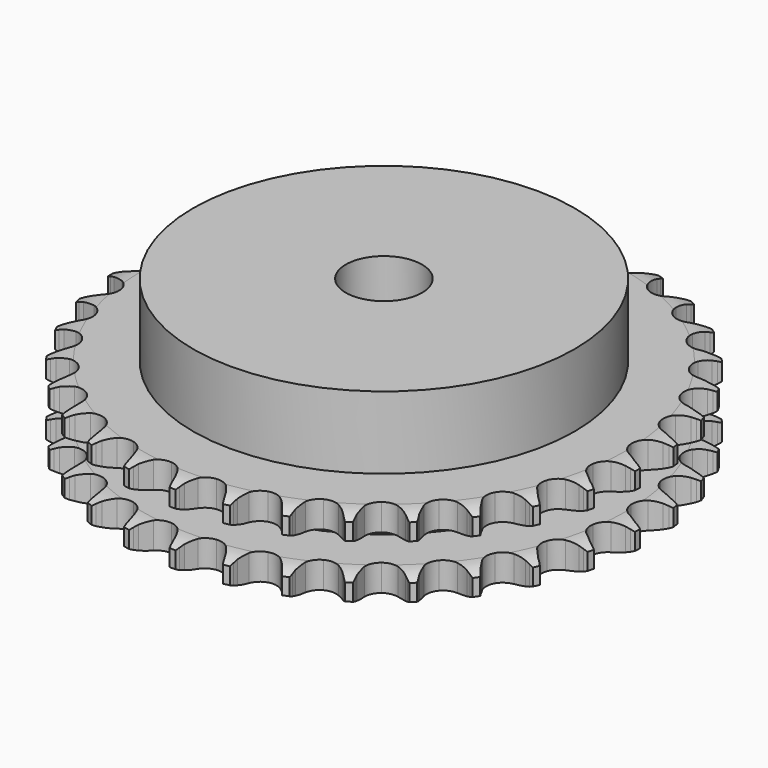
from build123d import *

# Parameters (mm, degrees)
PAD_DEPTH         = 21
SKETCH001_R       = 50
PAD001_DEPTH      = 40
SKETCH002_R       = 10
POCKET_DEPTH      = 0.001
POCKET_DEPTH_BACK = 40.001


with BuildPart() as part:
    # Sprocket → Pad (new body)
    with BuildSketch(Plane.XY):
        with BuildLine():
            ThreePointArc((-6.71181, 70.289252), (-5.944232, 69.253929), (-5.382059, 68.094174))
            Line((-5.382059, 68.094174), (-4.966904, 66.984686))
            ThreePointArc((-4.966904, 66.984686), (-4.30897, 65.54703), (-3.453835, 64.217188))
            ThreePointArc((-3.453835, 64.217188), (-1.931189, 62.944673), (0, 62.488321))
            ThreePointArc((0, 62.488321), (1.931189, 62.944673), (3.453835, 64.217188))
            ThreePointArc((3.453835, 64.217188), (4.30897, 65.54703), (4.966904, 66.984686))
            Line((4.966904, 66.984686), (5.382059, 68.094174))
            ThreePointArc((5.382059, 68.094174), (5.944232, 69.253929), (6.71181, 70.289252))
            ThreePointArc((6.71181, 70.289252), (7.26958, 69.127373), (7.602109, 67.882185))
            Line((7.602109, 67.882185), (7.799789, 66.714178))
            ThreePointArc((7.799789, 66.714178), (8.173756, 65.177987), (8.761763, 63.710342))
            ThreePointArc((8.761763, 63.710342), (10.016068, 62.172661), (11.825993, 61.359076))
            ThreePointArc((11.825993, 61.359076), (13.808647, 61.441701), (15.544603, 62.403057))
            Line((15.544603, 62.403057), (17.554081, 64.834193))
            ThreePointArc((17.554081, 64.834193), (17.849425, 65.347856), (18.171705, 65.845062))
            ThreePointArc((18.171705, 65.845062), (18.943204, 66.877467), (19.892847, 67.748815))
            ThreePointArc((19.892847, 67.748815), (20.220651, 66.502374), (20.311517, 65.216757))
            Line((20.311517, 65.216757), (20.284578, 64.032446))
            ThreePointArc((20.284578, 64.032446), (20.361061, 62.453243), (20.660688, 60.900839))
            ThreePointArc((20.660688, 60.900839), (21.601318, 59.153566), (23.224563, 58.012154))
            ThreePointArc((23.224563, 58.012154), (25.187025, 57.718066), (27.073547, 58.333517))
            Line((27.073547, 58.333517), (29.506807, 60.340423))
            ThreePointArc((29.506807, 60.340423), (29.894026, 60.788909), (30.304579, 61.216138))
            ThreePointArc((30.304579, 61.216138), (31.257519, 62.083879), (32.354905, 62.75976))
            ThreePointArc((32.354905, 62.75976), (32.440895, 61.473807), (32.286814, 60.194225))
            Line((32.286814, 60.194225), (32.03623, 59.036415))
            ThreePointArc((32.03623, 59.036415), (31.812464, 57.471275), (31.812882, 55.89022))
            ThreePointArc((31.812882, 55.89022), (32.40584, 53.996508), (33.783737, 52.568521))
            ThreePointArc((33.783737, 52.568521), (35.655079, 51.908349), (37.623984, 52.155652))
            Line((37.623984, 52.155652), (40.393081, 53.665793))
            ThreePointArc((40.393081, 53.665793), (40.858179, 54.032893), (41.342166, 54.374704))
            ThreePointArc((41.342166, 54.374704), (42.442107, 55.046418), (43.647572, 55.502403))
            ThreePointArc((43.647572, 55.502403), (43.48864, 54.223415), (43.095181, 52.996117))
            Line((43.095181, 52.996117), (42.630008, 51.906654))
            ThreePointArc((42.630008, 51.906654), (42.114081, 50.412146), (41.815275, 48.859584))
            ThreePointArc((41.815275, 48.859584), (42.039131, 46.887875), (43.121879, 45.224925))
            ThreePointArc((43.121879, 45.224925), (44.834465, 44.22253), (46.814592, 44.092746))
            Line((46.814592, 44.092746), (49.819444, 45.051541))
            ThreePointArc((49.819444, 45.051541), (50.34561, 45.323987), (50.88554, 45.568025))
            ThreePointArc((50.88554, 45.568025), (52.092726, 46.019436), (53.362702, 46.239045))
            ThreePointArc((53.362702, 46.239045), (52.964592, 45.013248), (52.345976, 43.882592))
            Line((52.345976, 43.882592), (51.683027, 42.900851))
            ThreePointArc((51.683027, 42.900851), (50.893586, 41.53099), (50.306356, 40.063035))
            ThreePointArc((50.306356, 40.063035), (50.153018, 38.084592), (50.901484, 36.246783))
            ThreePointArc((50.901484, 36.246783), (52.393416, 34.938393), (54.313198, 34.436212))
            Line((54.313198, 34.436212), (57.445202, 34.809009))
            ThreePointArc((57.445202, 34.809009), (58.013421, 34.976954), (58.589777, 35.1144))
            ThreePointArc((58.589777, 35.1144), (59.860578, 35.329191), (61.149166, 35.304487))
            ThreePointArc((61.149166, 35.304487), (60.526266, 34.176185), (59.704851, 33.183035))
            Line((59.704851, 33.183035), (58.868087, 32.344499))
            ThreePointArc((58.868087, 32.344499), (57.833665, 31.148797), (56.979234, 29.818503))
            ThreePointArc((56.979234, 29.818503), (56.454244, 27.904833), (56.841376, 25.958587))
            ThreePointArc((56.841376, 25.958587), (58.058733, 24.391491), (59.848784, 23.535065))
            Line((59.848784, 23.535065), (62.99474, 23.308389))
            ThreePointArc((62.99474, 23.308389), (63.584475, 23.365763), (64.176427, 23.391649))
            ThreePointArc((64.176427, 23.391649), (65.464913, 23.362058), (66.725539, 23.093934))
            ThreePointArc((66.725539, 23.093934), (65.900363, 22.103906), (64.905837, 21.284157))
            Line((64.905837, 21.284157), (63.925501, 20.619133))
            ThreePointArc((63.925501, 20.619133), (62.683484, 19.640804), (61.592733, 18.496253))
            ThreePointArc((61.592733, 18.496253), (60.715067, 16.71652), (60.726874, 14.73218))
            ThreePointArc((60.726874, 14.73218), (61.625657, 12.963018), (63.221278, 11.783299))
            Line((63.221278, 11.783299), (66.267485, 10.965343))
            ThreePointArc((66.267485, 10.965343), (66.85742, 10.910072), (67.443574, 10.823463))
            ThreePointArc((67.443574, 10.823463), (68.703175, 10.550559), (69.890277, 10.048705))
            ThreePointArc((69.890277, 10.048705), (68.89265, 9.232734), (67.760958, 8.616014))
            Line((67.760958, 8.616014), (66.67248, 8.148538))
            ThreePointArc((66.67248, 8.148538), (65.267758, 7.422942), (63.980111, 6.5055))
            ThreePointArc((63.980111, 6.5055), (62.781489, 4.924029), (62.417543, 2.973314))
            ThreePointArc((62.417543, 2.973314), (62.965268, 1.066027), (64.308792, -0.394346))
            Line((64.308792, -0.394346), (67.14515, -1.774019))
            ThreePointArc((67.14515, -1.774019), (67.713964, -1.939937), (68.273135, -2.135912))
            ThreePointArc((68.273135, -2.135912), (69.458325, -2.642264), (70.528999, -3.35971))
            ThreePointArc((70.528999, -3.35971), (69.394976, -3.972133), (68.16702, -4.363534))
            Line((68.16702, -4.363534), (67.009743, -4.616567))
            ThreePointArc((67.009743, -4.616567), (65.493086, -5.063204), (64.055081, -5.720379))
            ThreePointArc((64.055081, -5.720379), (62.578824, -7.046429), (61.85228, -8.893015))
            ThreePointArc((61.85228, -8.893015), (62.02915, -10.869493), (63.072017, -12.557739))
            Line((63.072017, -12.557739), (65.596014, -14.449263))
            ThreePointArc((65.596014, -14.449263), (66.123149, -14.719832), (66.635127, -15.018089))
            ThreePointArc((66.635127, -15.018089), (67.703071, -15.73959), (68.618618, -16.646697))
            ThreePointArc((68.618618, -16.646697), (67.389187, -17.033437), (66.109349, -17.185373))
            Line((66.109349, -17.185373), (64.925098, -17.214816))
            ThreePointArc((64.925098, -17.214816), (63.351323, -17.366354), (61.814934, -17.739508))
            ThreePointArc((61.814934, -17.739508), (60.114398, -18.762211), (59.051515, -20.437928))
            ThreePointArc((59.051515, -20.437928), (58.851138, -22.412161), (59.555656, -24.267262))
            Line((59.555656, -24.267262), (61.676068, -26.602273))
            ThreePointArc((61.676068, -26.602273), (62.142471, -26.967714), (62.588751, -27.357473))
            ThreePointArc((62.588751, -27.357473), (63.500851, -28.268045), (64.228182, -29.332028))
            ThreePointArc((64.228182, -29.332028), (62.947778, -29.479109), (61.662314, -29.386087))
            Line((61.662314, -29.386087), (60.493892, -29.190878))
            ThreePointArc((60.493892, -29.190878), (58.919878, -29.041838), (57.340634, -29.117485))
            ThreePointArc((57.340634, -29.117485), (55.47728, -29.799878), (54.116474, -31.244161))
            ThreePointArc((54.116474, -31.244161), (53.546092, -33.144795), (53.886798, -35.099703))
            Line((53.886798, -35.099703), (55.526988, -37.793808))
            ThreePointArc((55.526988, -37.793808), (55.915802, -38.240912), (56.280255, -38.708087))
            ThreePointArc((56.280255, -38.708087), (57.003546, -39.77482), (57.516373, -40.957224))
            ThreePointArc((57.516373, -40.957224), (56.231271, -40.859328), (54.986642, -40.524712))
            Line((54.986642, -40.524712), (53.876278, -40.111905))
            ThreePointArc((53.876278, -40.111905), (52.358915, -39.667674), (50.793893, -39.44308))
            ThreePointArc((50.793893, -39.44308), (48.83507, -39.7605), (47.225522, -40.921148))
            ThreePointArc((47.225522, -40.921148), (46.30575, -42.67949), (46.270331, -44.663549))
            Line((46.270331, -44.663549), (47.371017, -47.619376))
            ThreePointArc((47.371017, -47.619376), (47.668191, -48.131984), (47.937644, -48.65969))
            ThreePointArc((47.937644, -48.65969), (48.445983, -49.844029), (48.725771, -51.102118))
            ThreePointArc((48.725771, -51.102118), (47.48242, -50.762785), (46.32361, -50.198668))
            Line((46.32361, -50.198668), (45.311436, -49.583183))
            ThreePointArc((45.311436, -49.583183), (43.905564, -48.859817), (42.411329, -48.3431))
            ThreePointArc((42.411329, -48.3431), (40.427832, -48.284074), (38.627717, -49.119138))
            ThreePointArc((38.627717, -49.119138), (37.391799, -50.671637), (36.981534, -52.613138))
            Line((36.981534, -52.613138), (37.502935, -55.723856))
            ThreePointArc((37.502935, -55.723856), (37.697726, -56.283441), (37.862441, -56.852604))
            ThreePointArc((37.862441, -56.852604), (38.137456, -58.111745), (38.174094, -59.400049))
            ThreePointArc((38.174094, -59.400049), (37.017431, -58.831542), (35.986321, -58.058313))
            Line((35.986321, -58.058313), (35.10892, -57.262396))
            ThreePointArc((35.10892, -57.262396), (33.865352, -56.286039), (32.49591, -55.495874))
            ThreePointArc((32.49591, -55.495874), (30.559427, -55.062535), (28.633806, -55.541835))
            ThreePointArc((28.633806, -55.541835), (27.12641, -56.832379), (26.356128, -58.661152))
            Line((26.356128, -58.661152), (26.279399, -61.814331))
            ThreePointArc((26.279399, -61.814331), (26.364768, -62.400667), (26.418792, -62.990718))
            ThreePointArc((26.418792, -62.990718), (26.450543, -64.279151), (26.242705, -65.551108))
            ThreePointArc((26.242705, -65.551108), (25.214535, -64.773974), (24.348394, -63.81958))
            Line((24.348394, -63.81958), (23.637477, -62.871997))
            ThreePointArc((23.637477, -62.871997), (22.601158, -61.677937), (21.406003, -60.642883))
            ThreePointArc((21.406003, -60.642883), (19.586526, -59.850893), (17.604995, -59.957105))
            ThreePointArc((17.604995, -59.957105), (15.880602, -60.93905), (14.778142, -62.588998))
            Line((14.778142, -62.588998), (14.106057, -65.670674))
            ThreePointArc((14.106057, -65.670674), (14.078919, -66.262571), (14.020298, -66.852183))
            ThreePointArc((14.020298, -66.852183), (13.807638, -68.123342), (13.362836, -69.332978))
            ThreePointArc((13.362836, -69.332978), (12.50032, -68.375306), (11.830451, -67.274241))
            Line((11.830451, -67.274241), (11.311713, -66.20924))
            ThreePointArc((11.311713, -66.20924), (10.520099, -64.840634), (9.542428, -63.598099))
            ThreePointArc((9.542428, -63.598099), (7.905716, -62.476084), (5.939893, -62.205369))
            ThreePointArc((5.939893, -62.205369), (4.060828, -62.843226), (2.666036, -64.254715))
            Line((2.666036, -64.254715), (1.422886, -67.153508))
            ThreePointArc((1.422886, -67.153508), (1.28422, -67.729573), (1.115074, -68.297435))
            ThreePointArc((1.115074, -68.297435), (0.665688, -69.505377), (0, -70.608975))
            ThreePointArc((0, -70.608975), (-0.665688, -69.505377), (-1.115074, -68.297435))
            Line((-1.115074, -68.297435), (-1.422886, -67.153508))
            ThreePointArc((-1.422886, -67.153508), (-1.941183, -65.659821), (-2.666036, -64.254715))
            ThreePointArc((-2.666036, -64.254715), (-4.060828, -62.843226), (-5.939893, -62.205369))
            ThreePointArc((-5.939893, -62.205369), (-7.905716, -62.476084), (-9.542428, -63.598099))
            Line((-9.542428, -63.598099), (-11.311713, -66.20924))
            ThreePointArc((-11.311713, -66.20924), (-11.556893, -66.748652), (-11.830451, -67.274241))
            ThreePointArc((-11.830451, -67.274241), (-12.50032, -68.375306), (-13.362836, -69.332978))
            ThreePointArc((-13.362836, -69.332978), (-13.807638, -68.123342), (-14.020298, -66.852183))
            Line((-14.020298, -66.852183), (-14.106057, -65.670674))
            ThreePointArc((-14.106057, -65.670674), (-14.332306, -64.105891), (-14.778142, -62.588998))
            ThreePointArc((-14.778142, -62.588998), (-15.880602, -60.93905), (-17.604995, -59.957105))
            ThreePointArc((-17.604995, -59.957105), (-19.586526, -59.850893), (-21.406003, -60.642883))
            Line((-21.406003, -60.642883), (-23.637477, -62.871997))
            ThreePointArc((-23.637477, -62.871997), (-23.980311, -63.35526), (-24.348394, -63.81958))
            ThreePointArc((-24.348394, -63.81958), (-25.214535, -64.773974), (-26.242705, -65.551108))
            ThreePointArc((-26.242705, -65.551108), (-26.450543, -64.279151), (-26.418792, -62.990718))
            Line((-26.418792, -62.990718), (-26.279399, -61.814331))
            ThreePointArc((-26.279399, -61.814331), (-26.205423, -60.235008), (-26.356128, -58.661152))
            ThreePointArc((-26.356128, -58.661152), (-27.12641, -56.832379), (-28.633806, -55.541835))
            ThreePointArc((-28.633806, -55.541835), (-30.559427, -55.062535), (-32.49591, -55.495874))
            Line((-32.49591, -55.495874), (-35.10892, -57.262396))
            ThreePointArc((-35.10892, -57.262396), (-35.537017, -57.672044), (-35.986321, -58.058313))
            ThreePointArc((-35.986321, -58.058313), (-37.017431, -58.831542), (-38.174094, -59.400049))
            ThreePointArc((-38.174094, -59.400049), (-38.137456, -58.111745), (-37.862441, -56.852604))
            Line((-37.862441, -56.852604), (-37.502935, -55.723856))
            ThreePointArc((-37.502935, -55.723856), (-37.131407, -54.187074), (-36.981534, -52.613138))
            ThreePointArc((-36.981534, -52.613138), (-37.391799, -50.671637), (-38.627717, -49.119138))
            ThreePointArc((-38.627717, -49.119138), (-40.427832, -48.284074), (-42.411329, -48.3431))
            Line((-42.411329, -48.3431), (-45.311436, -49.583183))
            ThreePointArc((-45.311436, -49.583183), (-45.809323, -49.904411), (-46.32361, -50.198668))
            ThreePointArc((-46.32361, -50.198668), (-47.48242, -50.762785), (-48.725771, -51.102118))
            ThreePointArc((-48.725771, -51.102118), (-48.445983, -49.844029), (-47.937644, -48.65969))
            Line((-47.937644, -48.65969), (-47.371017, -47.619376))
            ThreePointArc((-47.371017, -47.619376), (-46.715365, -46.180678), (-46.270331, -44.663549))
            ThreePointArc((-46.270331, -44.663549), (-46.30575, -42.67949), (-47.225522, -40.921148))
            ThreePointArc((-47.225522, -40.921148), (-48.83507, -39.7605), (-50.793893, -39.44308))
            Line((-50.793893, -39.44308), (-53.876278, -40.111905))
            ThreePointArc((-53.876278, -40.111905), (-54.425961, -40.333102), (-54.986642, -40.524712))
            ThreePointArc((-54.986642, -40.524712), (-56.231271, -40.859328), (-57.516373, -40.957224))
            ThreePointArc((-57.516373, -40.957224), (-57.003546, -39.77482), (-56.280255, -38.708087))
            Line((-56.280255, -38.708087), (-55.526988, -37.793808))
            ThreePointArc((-55.526988, -37.793808), (-54.610908, -36.505192), (-53.886798, -35.099703))
            ThreePointArc((-53.886798, -35.099703), (-53.546092, -33.144795), (-54.116474, -31.244161))
            ThreePointArc((-54.116474, -31.244161), (-55.47728, -29.799878), (-57.340634, -29.117485))
            Line((-57.340634, -29.117485), (-60.493892, -29.190878))
            ThreePointArc((-60.493892, -29.190878), (-61.075502, -29.304049), (-61.662314, -29.386087))
            ThreePointArc((-61.662314, -29.386087), (-62.947778, -29.479109), (-64.228182, -29.332028))
            ThreePointArc((-64.228182, -29.332028), (-63.500851, -28.268045), (-62.588751, -27.357473))
            Line((-62.588751, -27.357473), (-61.676068, -26.602273))
            ThreePointArc((-61.676068, -26.602273), (-60.532671, -25.510313), (-59.555656, -24.267262))
            ThreePointArc((-59.555656, -24.267262), (-58.851138, -22.412161), (-59.051515, -20.437928))
            ThreePointArc((-59.051515, -20.437928), (-60.114398, -18.762211), (-61.814934, -17.739508))
            Line((-61.814934, -17.739508), (-64.925098, -17.214816))
            ThreePointArc((-64.925098, -17.214816), (-65.517616, -17.215872), (-66.109349, -17.185373))
            ThreePointArc((-66.109349, -17.185373), (-67.389187, -17.033437), (-68.618618, -16.646697))
            ThreePointArc((-68.618618, -16.646697), (-67.703071, -15.73959), (-66.635127, -15.018089))
            Line((-66.635127, -15.018089), (-65.596014, -14.449263))
            ThreePointArc((-65.596014, -14.449263), (-64.266625, -13.593425), (-63.072017, -12.557739))
            ThreePointArc((-63.072017, -12.557739), (-62.02915, -10.869493), (-61.85228, -8.893015))
            ThreePointArc((-61.85228, -8.893015), (-62.578824, -7.046429), (-64.055081, -5.720379))
            Line((-64.055081, -5.720379), (-67.009743, -4.616567))
            ThreePointArc((-67.009743, -4.616567), (-67.591753, -4.505468), (-68.16702, -4.363534))
            ThreePointArc((-68.16702, -4.363534), (-69.394976, -3.972133), (-70.528999, -3.35971))
            ThreePointArc((-70.528999, -3.35971), (-69.458325, -2.642264), (-68.273135, -2.135912))
            Line((-68.273135, -2.135912), (-67.14515, -1.774019))
            ThreePointArc((-67.14515, -1.774019), (-65.677816, -1.185236), (-64.308792, -0.394346))
            ThreePointArc((-64.308792, -0.394346), (-62.965268, 1.066027), (-62.417543, 2.973314))
            ThreePointArc((-62.417543, 2.973314), (-62.781489, 4.924029), (-63.980111, 6.5055))
            Line((-63.980111, 6.5055), (-66.67248, 8.148538))
            ThreePointArc((-66.67248, 8.148538), (-67.222947, 8.367775), (-67.760958, 8.616014))
            ThreePointArc((-67.760958, 8.616014), (-68.89265, 9.232734), (-69.890277, 10.048705))
            ThreePointArc((-69.890277, 10.048705), (-68.703175, 10.550559), (-67.443574, 10.823463))
            Line((-67.443574, 10.823463), (-66.267485, 10.965343))
            ThreePointArc((-66.267485, 10.965343), (-64.71524, 11.265791), (-63.221278, 11.783299))
            ThreePointArc((-63.221278, 11.783299), (-61.625657, 12.963018), (-60.726874, 14.73218))
            ThreePointArc((-60.726874, 14.73218), (-60.715067, 16.71652), (-61.592733, 18.496253))
            Line((-61.592733, 18.496253), (-63.925501, 20.619133))
            ThreePointArc((-63.925501, 20.619133), (-64.424529, 20.938584), (-64.905837, 21.284157))
            ThreePointArc((-64.905837, 21.284157), (-65.900363, 22.103906), (-66.725539, 23.093934))
            ThreePointArc((-66.725539, 23.093934), (-65.464913, 23.362058), (-64.176427, 23.391649))
            Line((-64.176427, 23.391649), (-62.99474, 23.308389))
            ThreePointArc((-62.99474, 23.308389), (-61.413686, 23.309644), (-59.848784, 23.535065))
            ThreePointArc((-59.848784, 23.535065), (-58.058733, 24.391491), (-56.841376, 25.958587))
            ThreePointArc((-56.841376, 25.958587), (-56.454244, 27.904833), (-56.979234, 29.818503))
            Line((-56.979234, 29.818503), (-58.868087, 32.344499))
            ThreePointArc((-58.868087, 32.344499), (-59.297641, 32.752619), (-59.704851, 33.183035))
            ThreePointArc((-59.704851, 33.183035), (-60.526266, 34.176185), (-61.149166, 35.304487))
            ThreePointArc((-61.149166, 35.304487), (-59.860578, 35.329191), (-58.589777, 35.1144))
            Line((-58.589777, 35.1144), (-57.445202, 34.809009))
            ThreePointArc((-57.445202, 34.809009), (-55.892482, 34.511024), (-54.313198, 34.436212))
            ThreePointArc((-54.313198, 34.436212), (-52.393416, 34.938393), (-50.901484, 36.246783))
            ThreePointArc((-50.901484, 36.246783), (-50.153018, 38.084592), (-50.306356, 40.063035))
            Line((-50.306356, 40.063035), (-51.683027, 42.900851))
            ThreePointArc((-51.683027, 42.900851), (-52.027581, 43.382889), (-52.345976, 43.882592))
            ThreePointArc((-52.345976, 43.882592), (-52.964592, 45.013248), (-53.362702, 46.239045))
            ThreePointArc((-53.362702, 46.239045), (-52.092726, 46.019436), (-50.88554, 45.568025))
            Line((-50.88554, 45.568025), (-49.819444, 45.051541))
            ThreePointArc((-49.819444, 45.051541), (-48.351177, 44.465087), (-46.814592, 44.092746))
            ThreePointArc((-46.814592, 44.092746), (-44.834465, 44.22253), (-43.121879, 45.224925))
            ThreePointArc((-43.121879, 45.224925), (-42.039131, 46.887875), (-41.815275, 48.859584))
            Line((-41.815275, 48.859584), (-42.630008, 51.906654))
            ThreePointArc((-42.630008, 51.906654), (-42.877109, 52.445188), (-43.095181, 52.996117))
            ThreePointArc((-43.095181, 52.996117), (-43.48864, 54.223415), (-43.647572, 55.502403))
            ThreePointArc((-43.647572, 55.502403), (-42.442107, 55.046418), (-41.342166, 54.374704))
            Line((-41.342166, 54.374704), (-40.393081, 53.665793))
            ThreePointArc((-40.393081, 53.665793), (-39.062336, 52.812065), (-37.623984, 52.155652))
            ThreePointArc((-37.623984, 52.155652), (-35.655079, 51.908349), (-33.783737, 52.568521))
            ThreePointArc((-33.783737, 52.568521), (-32.40584, 53.996508), (-31.812882, 55.89022))
            Line((-31.812882, 55.89022), (-32.03623, 59.036415))
            ThreePointArc((-32.03623, 59.036415), (-32.176947, 59.611982), (-32.286814, 60.194225))
            ThreePointArc((-32.286814, 60.194225), (-32.440895, 61.473807), (-32.354905, 62.75976))
            ThreePointArc((-32.354905, 62.75976), (-31.257519, 62.083879), (-30.304579, 61.216138))
            Line((-30.304579, 61.216138), (-29.506807, 60.340423))
            ThreePointArc((-29.506807, 60.340423), (-28.361679, 59.250278), (-27.073547, 58.333517))
            ThreePointArc((-27.073547, 58.333517), (-25.187025, 57.718066), (-23.224563, 58.012154))
            ThreePointArc((-23.224563, 58.012154), (-21.601318, 59.153566), (-20.660688, 60.900839))
            Line((-20.660688, 60.900839), (-20.284578, 64.032446))
            ThreePointArc((-20.284578, 64.032446), (-20.313826, 64.624243), (-20.311517, 65.216757))
            ThreePointArc((-20.311517, 65.216757), (-20.220651, 66.502374), (-19.892847, 67.748815))
            ThreePointArc((-19.892847, 67.748815), (-18.943204, 66.877467), (-18.171705, 65.845062))
            Line((-18.171705, 65.845062), (-17.554081, 64.834193))
            ThreePointArc((-17.554081, 64.834193), (-16.635958, 63.547032), (-15.544603, 62.403057))
            ThreePointArc((-15.544603, 62.403057), (-13.808647, 61.441701), (-11.825993, 61.359076))
            ThreePointArc((-11.825993, 61.359076), (-10.016068, 62.172661), (-8.761763, 63.710342))
            Line((-8.761763, 63.710342), (-7.799789, 66.714178))
            ThreePointArc((-7.799789, 66.714178), (-7.71651, 67.300815), (-7.602109, 67.882185))
            ThreePointArc((-7.602109, 67.882185), (-7.26958, 69.127373), (-6.71181, 70.289252))
        make_face()
    extrude(amount=PAD_DEPTH)

    # Sketch → Groove (revolve, cut)
    with BuildSketch(Plane.XZ):
        with BuildLine():
            ThreePointArc((63.533431, 0), (66.44032, 0.329167), (69.2, 1.3))
            Line((69.2, 1.3), (69.2, 5.7))
            ThreePointArc((69.2, 5.7), (66.44032, 6.670833), (63.533431, 7))
            Line((50, 7), (63.533431, 7))
            Line((50, 14), (50, 7))
            Line((63.533431, 14), (50, 14))
            ThreePointArc((63.533431, 14), (66.44032, 14.329167), (69.2, 15.3))
            Line((69.2, 15.3), (69.2, 19.7))
            ThreePointArc((69.2, 19.7), (66.44032, 20.670833), (63.533431, 21))
            Line((63.533431, 21), (73.533431, 21))
            Line((73.533431, 21), (73.533431, 0))
            Line((63.533431, 0), (73.533431, 0))
        make_face()
    revolve(axis=Axis((0, 0, 0), (0, 0, 1)), mode=Mode.SUBTRACT)

    # Sketch001 → Pad001 (join)
    with BuildSketch(Plane.XY):
        Circle(SKETCH001_R)
    extrude(amount=PAD001_DEPTH)

    # Sketch002 → Pocket (cut, two sides)
    with BuildSketch(Plane.XY) as pocket_sk:
        Circle(SKETCH002_R)
    extrude(amount=-POCKET_DEPTH, mode=Mode.SUBTRACT)
    extrude(pocket_sk.sketch, amount=POCKET_DEPTH_BACK, mode=Mode.SUBTRACT)


solid = part.part
